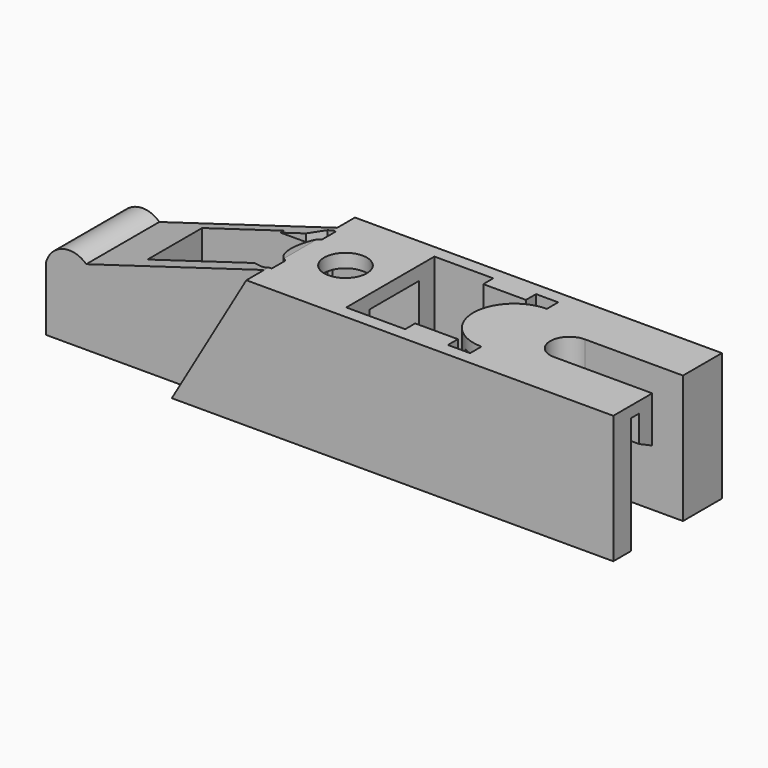
from build123d import *

# Parameters (mm, degrees)
F1_DEPTH  = 15
F3_DEPTH  = 2.6
F5_DEPTH  = 2.6
F6_R      = 2.5
F7_DEPTH  = 15.001
F9_DEPTH  = 25
F10_W     = 7.263658
F10_H     = 12.422406
F11_DEPTH = 25.43
F13_DEPTH = 13.301


with BuildPart() as f1:
    # F0 (on Top) → F1 (new body)
    with BuildSketch(Plane.XY):
        with BuildLine():
            Line((0, 10.7), (0, 0))
            Line((0, 0), (16.8, 0))
            Line((16.8, 0), (16.8, -2.6))
            Line((16.8, -2.6), (68.5, -2.6))
            Line((68.5, -2.6), (68.5, 3.1))
            Line((68.5, 3.1), (57, 3.1))
            ThreePointArc((57, 3.1), (54.75, 5.35), (57, 7.6))
            Line((57, 7.6), (68.5, 7.6))
            Line((68.5, 7.6), (68.5, 13.3))
            Line((68.5, 13.3), (16.8, 13.3))
            Line((16.8, 13.3), (16.8, 10.7))
            Line((16.8, 10.7), (0, 10.7))
        make_face()
        with BuildLine():
            Line((50.53, 0.57), (50.53, -1.1))
            Line((50.53, -1.1), (47.93, -1.1))
            Line((47.93, -1.1), (47.93, 0.37))
            Line((47.93, 0.37), (42.93, 0.37))
            Line((42.93, 0.37), (42.93, -1.1))
            Line((42.93, -1.1), (36.03, -1.1))
            Line((36.03, -1.1), (36.03, 11.8))
            Line((36.03, 11.8), (42.93, 11.8))
            Line((42.93, 11.8), (42.93, 10.33))
            Line((42.93, 10.33), (47.93, 10.33))
            Line((47.93, 10.33), (47.93, 11.8))
            Line((47.93, 11.8), (50.53, 11.8))
            Line((50.53, 11.8), (50.53, 10.13))
            ThreePointArc((50.53, 10.13), (45.75, 5.35), (50.53, 0.57))
        make_face(mode=Mode.SUBTRACT)
        with BuildLine():
            Line((25.897848, 2.656896), (25.897848, 0.656896))
            Line((25.897848, 0.656896), (24.897848, 0.656896))
            Line((24.897848, 0.656896), (23.134171, 1.6))
            Line((23.134171, 1.6), (10.6, 1.6))
            Line((10.6, 1.6), (10.6, 9.1))
            Line((10.6, 9.1), (23.134171, 9.1))
            Line((23.134171, 9.1), (24.897848, 10.043104))
            Line((24.897848, 10.043104), (25.897848, 10.043104))
            Line((25.897848, 10.043104), (25.897848, 8.043104))
            ThreePointArc((25.897848, 8.043104), (24.4, 5.35), (25.897848, 2.656896))
        make_face(mode=Mode.SUBTRACT)
        with BuildLine():
            Line((0, 10.7), (0, 0))
            Line((0, 0), (16.8, 0))
            Line((16.8, 0), (16.8, -2.6))
            Line((16.8, -2.6), (68.5, -2.6))
            Line((68.5, -2.6), (68.5, 3.1))
            Line((68.5, 3.1), (57, 3.1))
            ThreePointArc((57, 3.1), (54.75, 5.35), (57, 7.6))
            Line((57, 7.6), (68.5, 7.6))
            Line((68.5, 7.6), (68.5, 13.3))
            Line((68.5, 13.3), (16.8, 13.3))
            Line((16.8, 13.3), (16.8, 10.7))
            Line((16.8, 10.7), (0, 10.7))
        make_face()
        with BuildLine():
            Line((50.53, 0.57), (50.53, -1.1))
            Line((50.53, -1.1), (47.93, -1.1))
            Line((47.93, -1.1), (47.93, 0.37))
            Line((47.93, 0.37), (42.93, 0.37))
            Line((42.93, 0.37), (42.93, -1.1))
            Line((42.93, -1.1), (36.03, -1.1))
            Line((36.03, -1.1), (36.03, 11.8))
            Line((36.03, 11.8), (42.93, 11.8))
            Line((42.93, 11.8), (42.93, 10.33))
            Line((42.93, 10.33), (47.93, 10.33))
            Line((47.93, 10.33), (47.93, 11.8))
            Line((47.93, 11.8), (50.53, 11.8))
            Line((50.53, 11.8), (50.53, 10.13))
            ThreePointArc((50.53, 10.13), (45.75, 5.35), (50.53, 0.57))
        make_face(mode=Mode.SUBTRACT)
        with BuildLine():
            Line((25.897848, 2.656896), (25.897848, 0.656896))
            Line((25.897848, 0.656896), (24.897848, 0.656896))
            Line((24.897848, 0.656896), (23.134171, 1.6))
            Line((23.134171, 1.6), (10.6, 1.6))
            Line((10.6, 1.6), (10.6, 9.1))
            Line((10.6, 9.1), (23.134171, 9.1))
            Line((23.134171, 9.1), (24.897848, 10.043104))
            Line((24.897848, 10.043104), (25.897848, 10.043104))
            Line((25.897848, 10.043104), (25.897848, 8.043104))
            ThreePointArc((25.897848, 8.043104), (24.4, 5.35), (25.897848, 2.656896))
        make_face(mode=Mode.SUBTRACT)
    extrude(amount=F1_DEPTH)

    # F2 (on face) → F3 (cut, through all)
    with BuildSketch(Plane.XZ.offset(2.6)):
        Polygon((16.8, 15), (16.8, 0), (25.530007, 15), align=None)
    extrude(amount=-F3_DEPTH, mode=Mode.SUBTRACT)

    # F4 (on face) → F5 (cut, through all)
    with BuildSketch(Plane(origin=(0, 13.3, 0), x_dir=(-1, 0, 0), z_dir=(0, 1, 0))):
        Polygon((-25.53, 15), (-16.8, 0), (-16.8, 15), align=None)
    extrude(amount=-F5_DEPTH, mode=Mode.SUBTRACT)

    # F6 (on face) → F7 (cut, through all)
    with BuildSketch(Plane.XY.offset(15)):
        with Locations((30.779256, 5.35)):
            Circle(F6_R)
    extrude(amount=-F7_DEPTH, mode=Mode.SUBTRACT)

    # F8 (on face) → F9 (cut)
    with BuildSketch(Plane.YZ.offset(68.5)):
        Polygon((0, 13.7), (0, 0), (3.1, 0), (3.1, 9.610246), (1.181896, 10.552361), (1.181896, 13.7), align=None)
    extrude(amount=-F9_DEPTH, mode=Mode.SUBTRACT)

    # F10 (on face) → F11 (cut, through all)
    with BuildSketch(Plane.YZ.offset(36.03)):
        with Locations((5.951841, 7.195009)):
            Rectangle(F10_W, F10_H)
    extrude(amount=-F11_DEPTH, mode=Mode.SUBTRACT)

    # F12 (on face) → F13 (cut, through all)
    with BuildSketch(Plane.XZ):
        with BuildLine():
            ThreePointArc((0, 7.5), (1.970314, 9.507508), (4.698562, 8.822753))
            Line((4.698562, 8.822753), (25.530007, 15))
            Line((25.530007, 15), (0, 15))
            Line((0, 15), (0, 7.5))
        make_face()
    extrude(amount=-F13_DEPTH, mode=Mode.SUBTRACT)


solid = f1.part
